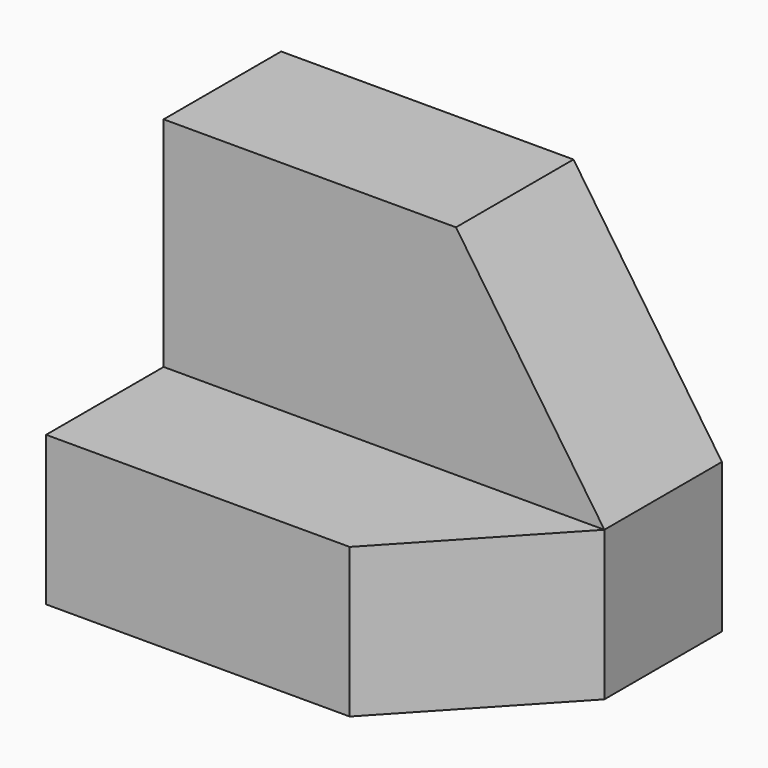
from build123d import *

# Parameters (mm, degrees)
F1_DEPTH = 25.4
F3_DEPTH = 25.401
F5_DEPTH = 12.7
F7_DEPTH = 12.908596


with BuildPart() as f1:
    # F0 (on Front) → F1 (new body)
    with BuildSketch(Plane.XZ):
        Polygon((0, 31.75), (0, 1.349553), (1.491611, 0), (38.1, 0), (38.1, 31.75), align=None)
        Polygon((1.491611, 0), (0, 1.349553), (0, 0), align=None)
    extrude(amount=F1_DEPTH)

    # F2 (on face) → F3 (cut, through all)
    with BuildSketch(Plane.XZ.offset(25.4)):
        Polygon((38.1, 31.75), (25.270723, 31.75), (38.1, 12.907596), align=None)
    extrude(amount=-F3_DEPTH, mode=Mode.SUBTRACT)

    # F4 (on face) → F5 (cut)
    with BuildSketch(Plane.XZ.offset(25.4)):
        Polygon((0, 12.907596), (38.1, 12.907596), (25.270723, 31.75), (0, 31.75), align=None)
    extrude(amount=-F5_DEPTH, mode=Mode.SUBTRACT)

    # F6 (on face) → F7 (cut, through all)
    with BuildSketch(Plane.XY.offset(12.907596)):
        Polygon((38.1, -12.7), (26.242595, -25.4), (38.1, -25.4), align=None)
    extrude(amount=-F7_DEPTH, mode=Mode.SUBTRACT)


solid = f1.part
